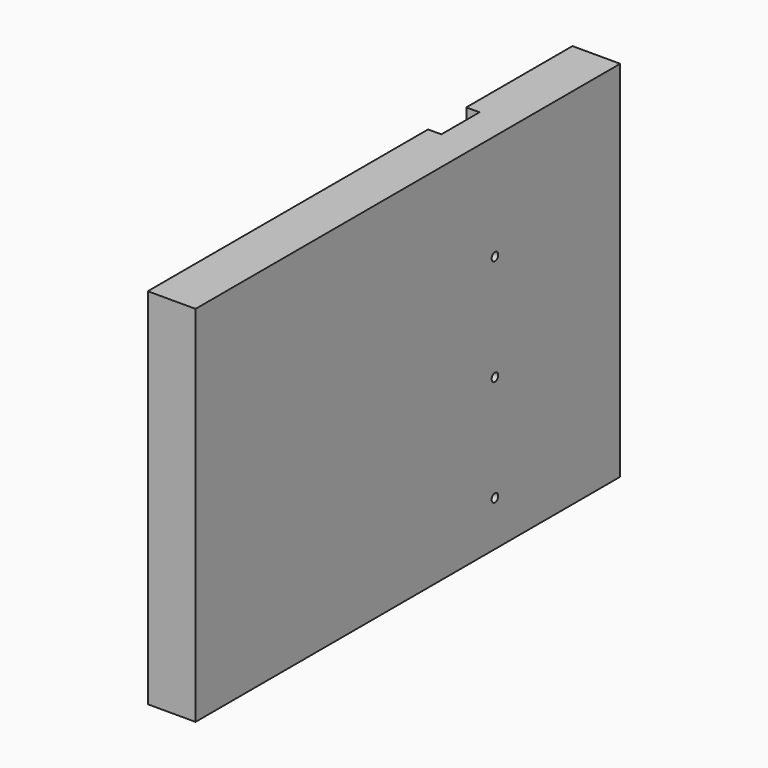
from build123d import *

# Parameters (mm, degrees)
BOX_W           = 18
BOX_H           = 200
BOX_DEPTH       = 137
SKETCH001_W     = 18
SKETCH001_H     = 137
POCKET001_DEPTH = 5
SKETCH003_R     = 1.55
HOLE_DEPTH      = 13.001


with BuildPart() as body002:
    # Box → Box (new body)
    with BuildSketch(Plane.XY):
        with Locations((9, 100)):
            Rectangle(BOX_W, BOX_H)
    extrude(amount=BOX_DEPTH)

    # Sketch001 (on Face2 of BaseFeature001) → Pocket001 (cut)
    with BuildSketch(Plane.YZ.offset(18)):
        with Locations((141, 68.5)):
            Rectangle(SKETCH001_W, SKETCH001_H)
    extrude(amount=-POCKET001_DEPTH, mode=Mode.SUBTRACT)

    # Sketch003 (on Face9 of Pocket001) → Hole (cut, through all)
    with BuildSketch(Plane.YZ.offset(13)):
        with Locations((141, 97)):
            Circle(SKETCH003_R)
        with Locations((141, 57)):
            Circle(SKETCH003_R)
        with Locations((141, 17)):
            Circle(SKETCH003_R)
    extrude(amount=-HOLE_DEPTH, mode=Mode.SUBTRACT)


with BuildPart() as rightleg:
    # Part__Mirroring: instance of Body002
    add(body002.part.mirror(Plane(origin=(0, 0, 0), x_dir=(0, -1, 0), z_dir=(1, 0, 0))))


with BuildPart() as rightleg_1:
    # Part__Mirroring placement: moved
    add(rightleg.part.moved(Location((350, 0, 0))))


solid = rightleg_1.part
